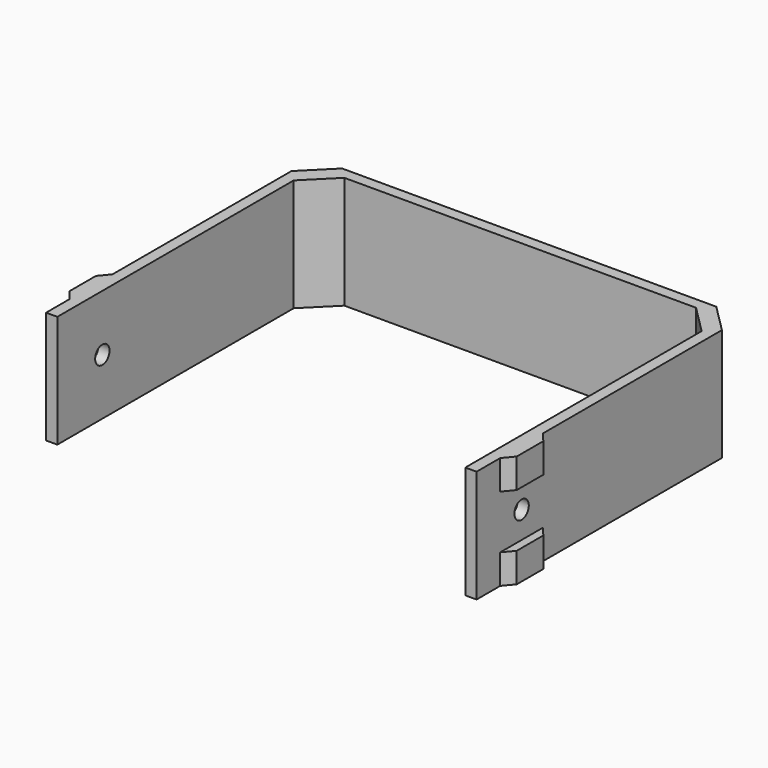
from build123d import *

# Parameters (mm, degrees)
PAD_DEPTH       = 20
PAD001_DEPTH    = 20
SKETCH002_R     = 1.6
POCKET_DEPTH    = 3.5
SKETCH003_W     = 9.5
SKETCH003_H     = 9.5
POCKET001_DEPTH = 1.5
CHAMFER_SIZE    = 5


with BuildPart() as part:
    # Sketch → Pad (new body)
    with BuildSketch(Plane.XY):
        Polygon((-38.25, -29.75), (-38.25, 29.75), (38.25, 29.75), (38.25, -29.75), (36.25, -29.75), (36.25, 27.75), (-36.25, 27.75), (-36.25, -29.75), align=None)
    extrude(amount=PAD_DEPTH)

    # Sketch001 (on Face9 of Pad) → Pad001 (join)
    with BuildSketch(Plane(origin=(0, 0, 0), x_dir=(1, 0, 0), z_dir=(0, 0, -1))):
        Polygon((-38.25, 24.5), (-39.75, 22.7), (-39.75, 16.8), (-38.25, 15), align=None)
    pad001 = extrude(amount=-PAD001_DEPTH)

    # Sketch002 (on Face14 of Pad001) → Pocket (cut)
    with BuildSketch(Plane(origin=(-39.75, 0, 0), x_dir=(0, -1, 0), z_dir=(-1, 0, 0))):
        with Locations((19.75, 10)):
            Circle(SKETCH002_R)
    pocket = extrude(amount=-POCKET_DEPTH, mode=Mode.SUBTRACT)

    # Sketch003 (on Face14 of Pocket) → Pocket001 (cut)
    with BuildSketch(Plane(origin=(-39.75, 0, 0), x_dir=(0, -1, 0), z_dir=(-1, 0, 0))):
        with Locations((19.75, 10)):
            Rectangle(SKETCH003_W, SKETCH003_H)
    pocket001 = extrude(amount=-POCKET001_DEPTH, mode=Mode.SUBTRACT)

    # Mirrored: Pad001, Pocket, Pocket001 across YZ
    add(pad001.mirror(Plane.YZ))
    add(pocket.mirror(Plane.YZ), mode=Mode.SUBTRACT)
    add(pocket001.mirror(Plane.YZ), mode=Mode.SUBTRACT)

    # Chamfer
    chamfer_edges = [part.edges().sort_by_distance(p)[0] for p in [
        (36.25, 27.75, 10),
        (-36.25, 27.75, 10),
        (-38.25, 29.75, 10),
        (38.25, 29.75, 10),
    ]]
    chamfer(chamfer_edges, length=CHAMFER_SIZE)


solid = part.part
